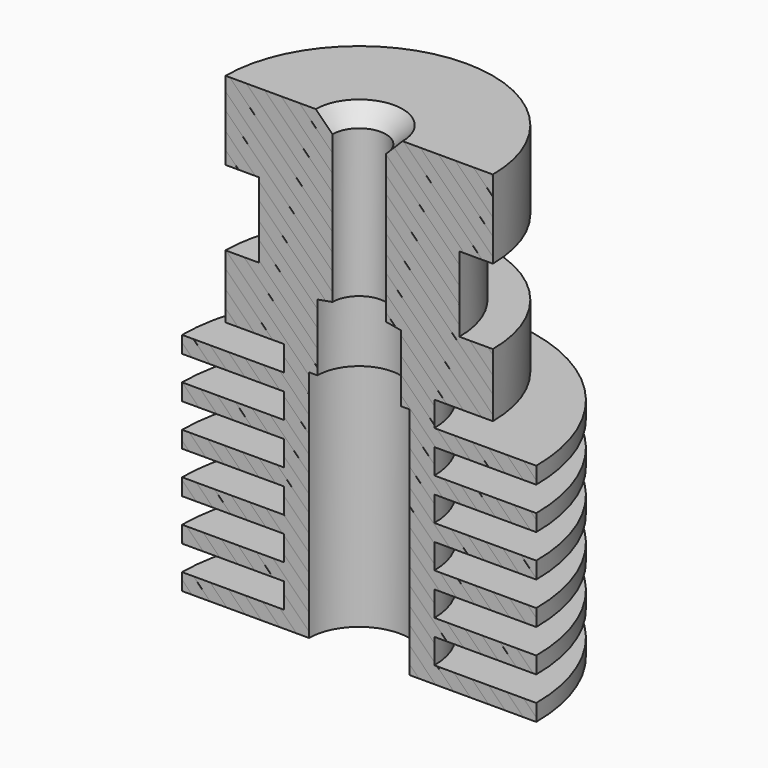
from build123d import *

# Parameters (mm, degrees)
CHAMFER_SIZE        = 1
SKETCH001_W         = 30
SKETCH001_H         = 15
POCKET_DEPTH        = 28.001
POCKET001_DEPTH     = 0.001
LINEARPATTERN_COUNT = 25
LINEARPATTERN_PITCH = 2.083333


with BuildPart() as part:
    # Sketch → Revolution (revolve)
    with BuildSketch(Plane.XZ):
        Polygon((10.6, 0), (10.6, 1), (4.5, 1), (4.5, 2.5), (10.6, 2.5), (10.6, 3.5), (4.5, 3.5), (4.5, 5), (10.6, 5), (10.6, 6), (4.5, 6), (4.5, 7.5), (10.6, 7.5), (10.6, 8.5), (4.5, 8.5), (4.5, 10), (10.6, 10), (10.6, 11), (4.5, 11), (4.5, 12.5), (10.6, 12.5), (10.6, 13.5), (4.5, 13.5), (4.5, 15), (8, 15), (8, 18.8), (6, 18.8), (6, 23.3), (8, 23.3), (8, 28), (1.6, 28), (1.6, 18.158694), (2.5, 18), (2.5, 14), (3, 14), (3, 0), align=None)
    revolve(axis=Axis((0, 0, 0), (0, 0, 1)))

    # Chamfer
    chamfer_edges = [part.edges().sort_by_distance(p)[0] for p in [
        (-1.6, 0, 28),
    ]]
    chamfer(chamfer_edges, length=CHAMFER_SIZE)

    # Sketch001 (on Face1 of Chamfer) → Pocket (cut, through all)
    with BuildSketch(Plane(origin=(0, 0, 28), x_dir=(-1, 0, 0), z_dir=(0, 0, 1))):
        with Locations((0, 7.5)):
            Rectangle(SKETCH001_W, SKETCH001_H)
    extrude(amount=-POCKET_DEPTH, mode=Mode.SUBTRACT)

    # Sketch002 (on Face2 of Pocket) → Pocket001 (cut)
    with BuildSketch(Plane.XZ):
        Polygon((-15, 4), (15, -26), (15, -25), (-15, 5), align=None)
    pocket001 = extrude(amount=-POCKET001_DEPTH, mode=Mode.SUBTRACT)

    # LinearPattern: Pocket001 ×25
    with Locations(*[(0, 0, i * LINEARPATTERN_PITCH) for i in range(1, LINEARPATTERN_COUNT)]):
        add(pocket001, mode=Mode.SUBTRACT)


solid = part.part
